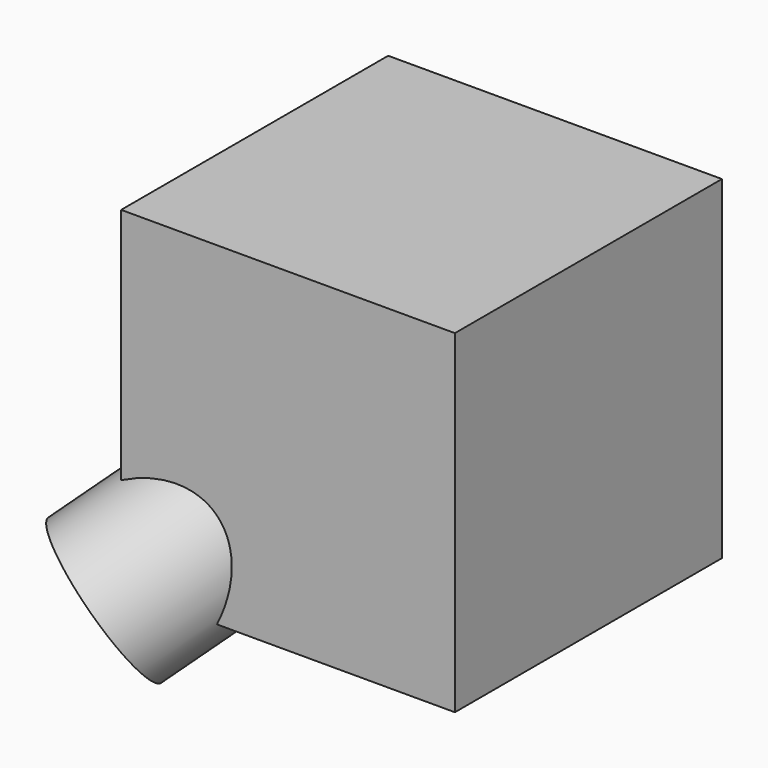
from build123d import *

# Parameters (mm, degrees)
F0_W     = 10.16
F0_H     = 10.16
F1_DEPTH = 10.16
F3_R     = 2.38125
F4_DEPTH = 6.35


with BuildPart() as f1:
    # F0 (on Top) → F1 (new body)
    with BuildSketch(Plane.XY):
        Rectangle(F0_W, F0_H)
    extrude(amount=F1_DEPTH)

    # F3 (on 3pt) → F4 (join)
    with BuildSketch(Plane(origin=(0, 0, 0), x_dir=(0.4082482905, -0.8164965809, 0.4082482905), z_dir=(-0.5773502692, -0.5773502692, -0.5773502692))):
        with Locations((2.0739013156, 3.5921024484)):
            Circle(F3_R)
    extrude(amount=F4_DEPTH)


solid = f1.part
